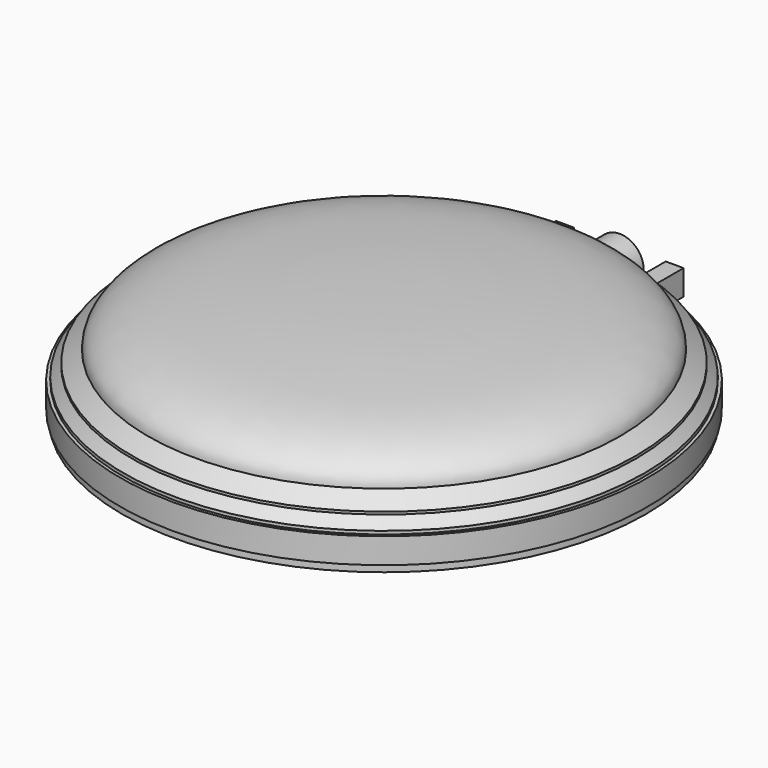
from build123d import *

# Parameters (mm, degrees)
F0_R      = 24.055
F1_DEPTH  = 2.32
F9_DEPTH  = 2.3
F10_R     = 2.185
F11_DEPTH = 26.86


with BuildPart() as f1:
    # F0 (on Top) → F1 (new body)
    with BuildSketch(Plane.XY):
        Circle(F0_R)
    extrude(amount=F1_DEPTH)

    # F2 (on Front) → F3 (revolve)
    with BuildSketch(Plane.XZ):
        with BuildLine():
            Line((0, 0), (0, -1.6493958917))
            add(Edge.make_bspline(
                [(0, -1.6493958917), (5.838995212, -1.6493958917), (9.6643785885, -1.6387244263), (18.4678118676, -1.3285243185), (21.625, -1.0017807363)],
                knots=[0, 0, 0, 0, 0.5029115423, 1, 1, 1, 1], degree=3))
            Line((21.625, -1.0017807363), (22.6903446019, -0.9012441733))
            Line((22.6903446019, -0.9012441733), (23.875, -0.66))
            Line((23.875, -0.66), (23.875, 0))
            Line((23.875, 0), (0, 0))
        make_face()
    revolve(axis=Axis((0, 0, 2.1747807286), (0, 0, -1)))

    # F4 (on Front) → F5 (revolve)
    with BuildSketch(Plane.XZ):
        Polygon((0, 2.32), (23.765, 2.32), (23.765, 2.6056710631), (22.98, 3.5024336539), (22.98, 3.7378338166), (21.5, 4.8182192637), (0, 4.8182192637), align=None)
    revolve(axis=Axis((0, 0, 2.1747807286), (0, 0, -1)))

    # F6 (on Front) → F7 (revolve)
    with BuildSketch(Plane.XZ):
        with BuildLine():
            Line((0, 4.8182192637), (21.5118631732, 4.8182192637))
            add(Edge.make_bspline(
                [(21.5118631732, 4.8182192637), (21.5118631732, 5.7770444763), (18.948944908, 7.8062022624), (10.7866845563, 8.4883283368), (5.8856403574, 8.8006041083), (0, 8.8006041083)],
                knots=[0, 0, 0, 0, 0.2285519381, 0.5701683291, 1, 1, 1, 1], degree=3))
            Line((0, 8.8006041083), (0, 4.8182192637))
        make_face()
    revolve(axis=Axis((0, 0, 2.1747807286), (0, 0, -1)))

    # F8 (on Top) → F9 (join)
    with BuildSketch(Plane.XY):
        Polygon((4.19, 26.86), (4.19, 23.6872734818), (4.9623157829, 22.0649428666), (5.82, 23.3403218701), (5.82, 26.86), align=None)
        Polygon((-5.82, 26.86), (-5.82, 23.3403218701), (-4.9623157829, 22.0649428666), (-4.19, 23.6872734818), (-4.19, 26.86), align=None)
    extrude(amount=F9_DEPTH)

    # F10 (on Front) → F11 (join)
    with BuildSketch(Plane.XZ):
        with Locations((0, 0.9744669078)):
            Circle(F10_R)
    extrude(amount=-F11_DEPTH)


solid = f1.part
